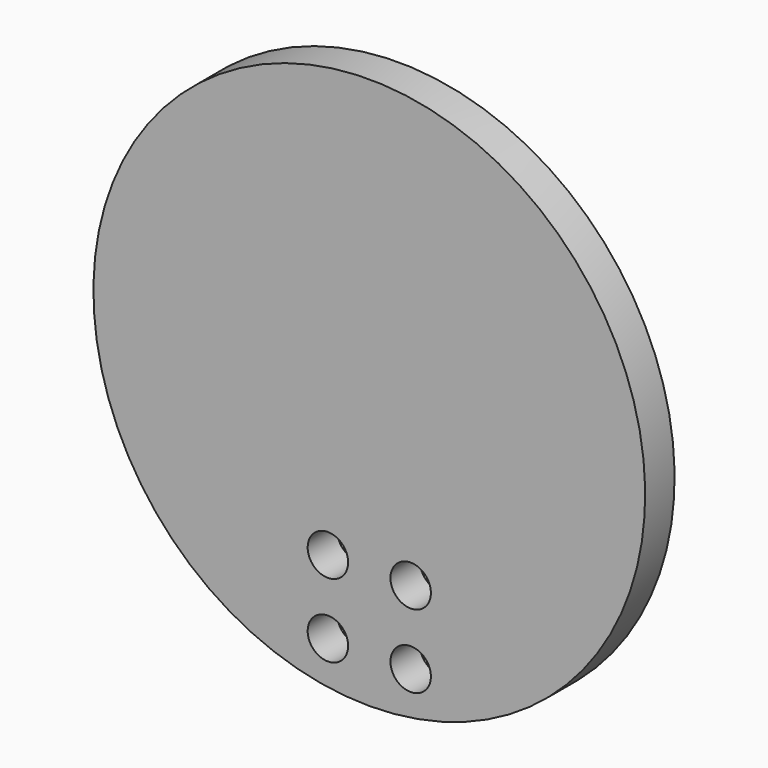
from build123d import *

# Parameters (mm, degrees)
CYLINDER030_R          = 2.2
CYLINDER030_DEPTH      = 26
CYLINDER030_ROLL_ANGLE = -90
ARRAY002_X_COUNT       = 2
ARRAY002_X_PITCH       = 8
ARRAY002_Z_COUNT       = 2
ARRAY002_Z_PITCH       = 9
CYLINDER011_R          = 30
CYLINDER011_DEPTH      = 4
CYLINDER011_ROLL_ANGLE = -90
CUT012_PITCH_ANGLE     = 90


with BuildPart() as obj1:
    # Cylinder030 → Cylinder030 (new body)
    with BuildSketch(Plane.XY):
        Circle(CYLINDER030_R)
    extrude(amount=CYLINDER030_DEPTH)


with BuildPart() as obj1_1:
    # Cylinder030 roll: moved
    add(obj1.part.rotate(Axis((0, 0, 0), (1, 0, 0)), CYLINDER030_ROLL_ANGLE))


with BuildPart() as obj1_2:
    # Cylinder030 placement: moved
    add(obj1_1.part.moved(Location((202, 0, 4))))

    # Array002 X: obj1_2


with BuildPart() as obj1_3:
    add(obj1_2.part)
    with Locations(*[(i * ARRAY002_X_PITCH, 0, 0) for i in range(1, ARRAY002_X_COUNT)]):
        add(obj1_2.part)

    # Array002 Z: obj1_2


with BuildPart() as obj1_4:
    add(obj1_3.part)
    with Locations(*[(0, 0, i * ARRAY002_Z_PITCH) for i in range(1, ARRAY002_Z_COUNT)]):
        add(obj1_3.part)


with BuildPart() as obj2:
    # Cylinder011 → Cylinder011 (new body)
    with BuildSketch(Plane.XY):
        Circle(CYLINDER011_R)
    extrude(amount=CYLINDER011_DEPTH)


with BuildPart() as obj2_1:
    # Cylinder011 roll: moved
    add(obj2.part.rotate(Axis((0, 0, 0), (1, 0, 0)), CYLINDER011_ROLL_ANGLE))


with BuildPart() as obj2_2:
    # Cylinder011 placement: moved
    add(obj2_1.part.moved(Location((185, 20, 8.5))))

    # Cut012: cut obj1
    add(obj1_4.part, mode=Mode.SUBTRACT)


with BuildPart() as obj2_3:
    # Cut012 pitch: moved
    add(obj2_2.part.rotate(Axis((0, 0, 0), (0, 1, 0)), CUT012_PITCH_ANGLE))


with BuildPart() as obj2_4:
    # Cut012 placement: moved
    add(obj2_3.part.moved(Location((359, 67, 326))))


solid = obj2_4.part
